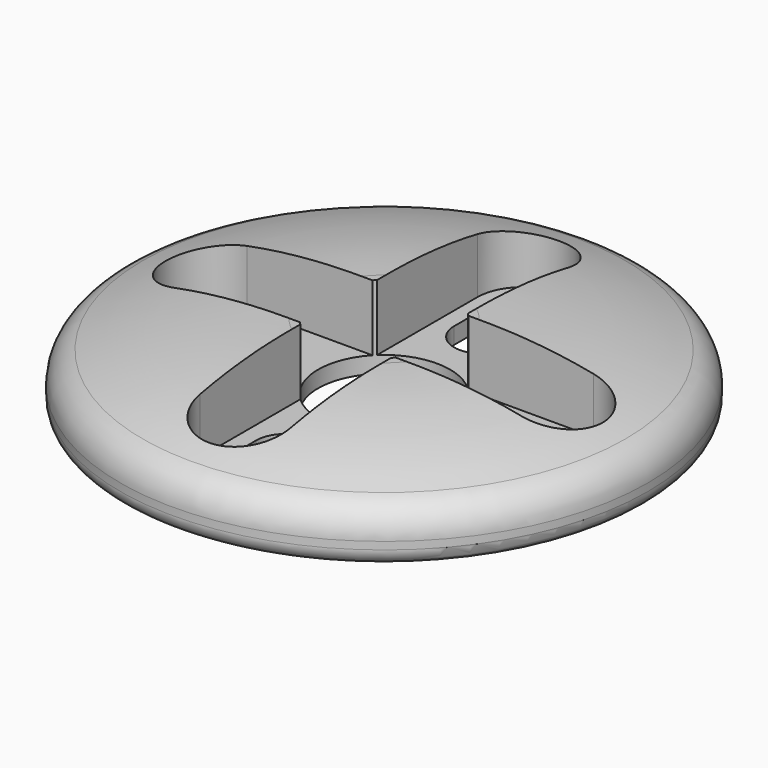
from build123d import *

# Parameters (mm, degrees)
F3_DEPTH = 25
F5_DEPTH = 4


with BuildPart() as f1:
    # F0 (on Front) → F1 (revolve)
    with BuildSketch(Plane.XZ):
        with BuildLine():
            Line((4, 5), (4, 0))
            Line((4, 0), (15, 0))
            ThreePointArc((15, 0), (15.707107, 0.292893), (16, 1))
            Line((16, 1), (16, 1.456107))
            ThreePointArc((16, 1.456107), (15.622755, 2.625152), (14.633333, 3.35318))
            ThreePointArc((14.633333, 3.35318), (9.633139, 4.585612), (4.5, 5))
            Line((4.5, 5), (4, 5))
        make_face()
    revolve(axis=Axis((0, 0, 2.5), (0, 0, 1)))

    # F2 (on face) → F3 (cut)
    with BuildSketch(Plane.XY.offset(5)):
        with BuildLine():
            ThreePointArc((1.75, 10.5), (0, 12.25), (-1.75, 10.5))
            Line((-1.75, 10.5), (-1.75, 7.5))
            ThreePointArc((-1.75, 7.5), (0, 5.75), (1.75, 7.5))
            Line((1.75, 7.5), (1.75, 10.5))
        make_face()
        with BuildLine():
            Line((-7.5, 1.75), (-10.5, 1.75))
            ThreePointArc((-10.5, 1.75), (-12.25, 0), (-10.5, -1.75))
            Line((-10.5, -1.75), (-7.5, -1.75))
            ThreePointArc((-7.5, -1.75), (-5.75, 0), (-7.5, 1.75))
        make_face()
        with BuildLine():
            Line((-1.75, -7.5), (-1.75, -10.5))
            ThreePointArc((-1.75, -10.5), (0, -12.25), (1.75, -10.5))
            Line((1.75, -10.5), (1.75, -7.5))
            ThreePointArc((1.75, -7.5), (0, -5.75), (-1.75, -7.5))
        make_face()
        with BuildLine():
            Line((7.5, -1.75), (10.5, -1.75))
            ThreePointArc((10.5, -1.75), (12.25, 0), (10.5, 1.75))
            Line((10.5, 1.75), (7.5, 1.75))
            ThreePointArc((7.5, 1.75), (5.75, 0), (7.5, -1.75))
        make_face()
    extrude(amount=-F3_DEPTH, mode=Mode.SUBTRACT)

    # F4 (on face) → F5 (cut)
    with BuildSketch(Plane.XY.offset(5)):
        with BuildLine():
            Line((2.75, 2.75), (2.75, 10.5))
            ThreePointArc((2.75, 10.5), (0, 13.25), (-2.75, 10.5))
            Line((-2.75, 10.5), (-2.75, 2.75))
            Line((-2.75, 2.75), (-10.5, 2.75))
            ThreePointArc((-10.5, 2.75), (-13.25, 0), (-10.5, -2.75))
            Line((-10.5, -2.75), (-2.75, -2.75))
            Line((-2.75, -2.75), (-2.75, -10.5))
            ThreePointArc((-2.75, -10.5), (0, -13.25), (2.75, -10.5))
            Line((2.75, -10.5), (2.75, -2.75))
            Line((2.75, -2.75), (10.5, -2.75))
            ThreePointArc((10.5, -2.75), (13.25, 0), (10.5, 2.75))
            Line((10.5, 2.75), (2.75, 2.75))
        make_face()
    extrude(amount=-F5_DEPTH, mode=Mode.SUBTRACT)


solid = f1.part
